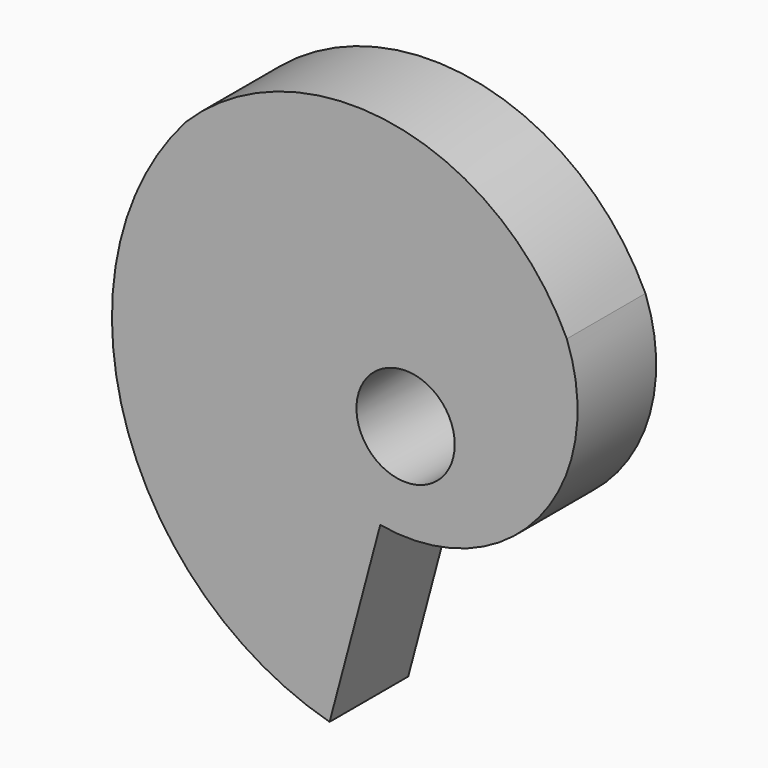
from build123d import *

# Parameters (mm, degrees)
F2_DEPTH = 12.7
F1_R     = 6.35
F3_DEPTH = 25.4


with BuildPart() as f2:
    # F0 (on Front) → F2 (new body)
    with BuildSketch(Plane.XZ):
        with BuildLine():
            ThreePointArc((-28.403627, 25.393778), (-36.341802, -10.856114), (-9.82124, -36.812406))
            Line((-9.82124, -36.812406), (-3.273747, -12.270802))
            ThreePointArc((-3.273747, -12.270802), (17.211851, -4.772017), (20.836528, 16.739681))
            ThreePointArc((20.836528, 16.739681), (-1.537184, 33.848118), (-28.403627, 25.393778))
        make_face()
    extrude(amount=F2_DEPTH)

    # F1 (on face) → F3 (cut)
    with BuildSketch(Plane.XZ):
        Circle(F1_R)
    extrude(amount=F3_DEPTH, mode=Mode.SUBTRACT)


solid = f2.part
